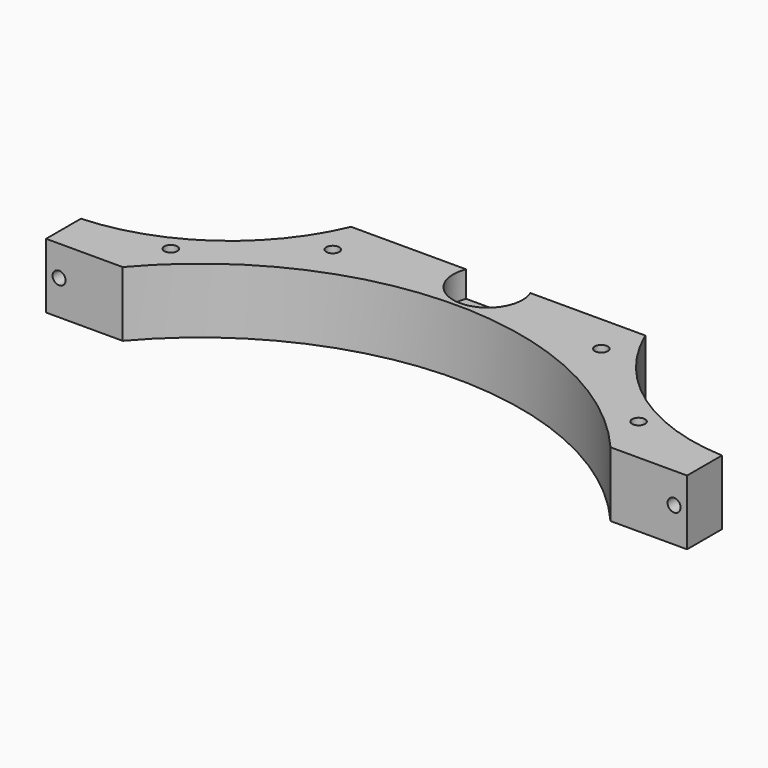
from build123d import *

# Parameters (mm, degrees)
CYLINDER1913_R               = 1.5
CYLINDER1913_DEPTH           = 50
CYLINDER1913_PLACEMENT_ANGLE = 45
CYLINDER1912_R               = 1.5
CYLINDER1912_DEPTH           = 50
CYLINDER1912_PLACEMENT_ANGLE = 45
CYLINDER1910_R               = 1.5
CYLINDER1910_DEPTH           = 50
CYLINDER1910_PLACEMENT_ANGLE = 45
CYLINDER1911_R               = 1.5
CYLINDER1911_DEPTH           = 50
CYLINDER1911_PLACEMENT_ANGLE = 45
CYLINDER1923_R               = 3
CYLINDER1923_DEPTH           = 3
CYLINDER1923_PLACEMENT_ANGLE = 45
CYLINDER1922_R               = 3
CYLINDER1922_DEPTH           = 3
CYLINDER1922_PLACEMENT_ANGLE = 45
CYLINDER1925_R               = 3
CYLINDER1925_DEPTH           = 3
CYLINDER1925_PLACEMENT_ANGLE = 45
CYLINDER1924_R               = 3
CYLINDER1924_DEPTH           = 3
CYLINDER1924_PLACEMENT_ANGLE = 45
CYLINDER1902_R               = 8
CYLINDER1902_DEPTH           = 6
CYLINDER1897_R               = 3
CYLINDER1897_DEPTH           = 50
CYLINDER1898_R               = 3
CYLINDER1898_DEPTH           = 50
CYLINDER1891_R               = 1.5
CYLINDER1891_DEPTH           = 50
CYLINDER1899_R               = 1.5
CYLINDER1899_DEPTH           = 50
CYLINDER1894_R               = 74
CYLINDER1894_DEPTH           = 15
CYLINDER1892_R               = 46
CYLINDER1892_DEPTH           = 36
CYLINDER1895_R               = 46
CYLINDER1895_DEPTH           = 36
BOX801_W                     = 148
BOX801_H                     = 38
BOX801_DEPTH                 = 15
CHAMFER064_SIZE              = 2


with BuildPart() as obj1:
    # Cylinder1913 → Cylinder1913 (new body)
    with BuildSketch(Plane.XY):
        Circle(CYLINDER1913_R)
    extrude(amount=CYLINDER1913_DEPTH)


with BuildPart() as obj1_1:
    # Cylinder1913 placement: moved
    add(obj1.part.moved(Location((-31, 77, 0))).rotate(Axis((-31, 77, 0), (0, 0, 1)), CYLINDER1913_PLACEMENT_ANGLE))


with BuildPart() as compound960:
    # Cylinder1912 → Cylinder1912 (new body)
    with BuildSketch(Plane.XY):
        Circle(CYLINDER1912_R)
    extrude(amount=CYLINDER1912_DEPTH)


with BuildPart() as compound960_1:
    # Cylinder1912 placement: moved
    add(compound960.part.moved(Location((31, 77, 0))).rotate(Axis((31, 77, 0), (0, 0, 1)), CYLINDER1912_PLACEMENT_ANGLE))

    # Compound960: union obj1
    add(obj1_1.part)


with BuildPart() as obj2:
    # Cylinder1910 → Cylinder1910 (new body)
    with BuildSketch(Plane.XY):
        Circle(CYLINDER1910_R)
    extrude(amount=CYLINDER1910_DEPTH)


with BuildPart() as obj2_1:
    # Cylinder1910 placement: moved
    add(obj2.part.moved(Location((-54, 59, 0))).rotate(Axis((-54, 59, 0), (0, 0, 1)), CYLINDER1910_PLACEMENT_ANGLE))


with BuildPart() as compound968:
    # Cylinder1911 → Cylinder1911 (new body)
    with BuildSketch(Plane.XY):
        Circle(CYLINDER1911_R)
    extrude(amount=CYLINDER1911_DEPTH)


with BuildPart() as compound968_1:
    # Cylinder1911 placement: moved
    add(compound968.part.moved(Location((54, 59, 0))).rotate(Axis((54, 59, 0), (0, 0, 1)), CYLINDER1911_PLACEMENT_ANGLE))

    # Compound959: union obj2
    add(obj2_1.part)

    # Compound968: union Compound960
    add(compound960_1.part)


with BuildPart() as obj3:
    # Cylinder1923 → Cylinder1923 (new body)
    with BuildSketch(Plane.XY):
        Circle(CYLINDER1923_R)
    extrude(amount=CYLINDER1923_DEPTH)


with BuildPart() as obj3_1:
    # Cylinder1923 placement: moved
    add(obj3.part.moved(Location((-31, 77, 0))).rotate(Axis((-31, 77, 0), (0, 0, 1)), CYLINDER1923_PLACEMENT_ANGLE))


with BuildPart() as compound966:
    # Cylinder1922 → Cylinder1922 (new body)
    with BuildSketch(Plane.XY):
        Circle(CYLINDER1922_R)
    extrude(amount=CYLINDER1922_DEPTH)


with BuildPart() as compound966_1:
    # Cylinder1922 placement: moved
    add(compound966.part.moved(Location((31, 77, 0))).rotate(Axis((31, 77, 0), (0, 0, 1)), CYLINDER1922_PLACEMENT_ANGLE))

    # Compound966: union obj3
    add(obj3_1.part)


with BuildPart() as obj4:
    # Cylinder1925 → Cylinder1925 (new body)
    with BuildSketch(Plane.XY):
        Circle(CYLINDER1925_R)
    extrude(amount=CYLINDER1925_DEPTH)


with BuildPart() as obj4_1:
    # Cylinder1925 placement: moved
    add(obj4.part.moved(Location((-54, 59, 0))).rotate(Axis((-54, 59, 0), (0, 0, 1)), CYLINDER1925_PLACEMENT_ANGLE))


with BuildPart() as compound967:
    # Cylinder1924 → Cylinder1924 (new body)
    with BuildSketch(Plane.XY):
        Circle(CYLINDER1924_R)
    extrude(amount=CYLINDER1924_DEPTH)


with BuildPart() as compound967_1:
    # Cylinder1924 placement: moved
    add(compound967.part.moved(Location((54, 59, 0))).rotate(Axis((54, 59, 0), (0, 0, 1)), CYLINDER1924_PLACEMENT_ANGLE))

    # Compound965: union obj4
    add(obj4_1.part)

    # Compound967: union Compound966
    add(compound966_1.part)


with BuildPart() as compound967_2:
    # Compound967 placement: moved
    add(compound967_1.part.moved(Location((0, 0, 16))))


with BuildPart() as obj5:
    # Cylinder1902 → Cylinder1902 (new body)
    with BuildSketch(Plane(origin=(0, 83, 25), x_dir=(1, 0, 0), z_dir=(0, 0, 1))):
        Circle(CYLINDER1902_R)
    extrude(amount=CYLINDER1902_DEPTH)


with BuildPart() as obj6:
    # Cylinder1897 → Cylinder1897 (new body)
    with BuildSketch(Plane(origin=(-71, 106, 24), x_dir=(1, 0, 0), z_dir=(0, -1, 0))):
        Circle(CYLINDER1897_R)
    extrude(amount=CYLINDER1897_DEPTH)


with BuildPart() as compound955:
    # Cylinder1898 → Cylinder1898 (new body)
    with BuildSketch(Plane(origin=(71, 106, 24), x_dir=(1, 0, 0), z_dir=(0, -1, 0))):
        Circle(CYLINDER1898_R)
    extrude(amount=CYLINDER1898_DEPTH)

    # Compound955: union obj6
    add(obj6.part)


with BuildPart() as obj7:
    # Cylinder1891 → Cylinder1891 (new body)
    with BuildSketch(Plane(origin=(-71, 80, 24), x_dir=(1, 0, 0), z_dir=(0, -1, 0))):
        Circle(CYLINDER1891_R)
    extrude(amount=CYLINDER1891_DEPTH)


with BuildPart() as compound953:
    # Cylinder1899 → Cylinder1899 (new body)
    with BuildSketch(Plane(origin=(71, 80, 24), x_dir=(1, 0, 0), z_dir=(0, -1, 0))):
        Circle(CYLINDER1899_R)
    extrude(amount=CYLINDER1899_DEPTH)

    # Compound953: union obj7
    add(obj7.part)


with BuildPart() as obj8:
    # Cylinder1894 → Cylinder1894 (new body)
    with BuildSketch(Plane.XY.offset(16)):
        Circle(CYLINDER1894_R)
    extrude(amount=CYLINDER1894_DEPTH)


with BuildPart() as obj9:
    # Cylinder1892 → Cylinder1892 (new body)
    with BuildSketch(Plane(origin=(76.3, 104, 16), x_dir=(1, 0, 0), z_dir=(0, 0, 1))):
        Circle(CYLINDER1892_R)
    extrude(amount=CYLINDER1892_DEPTH)


with BuildPart() as obj10:
    # Cylinder1895 → Cylinder1895 (new body)
    with BuildSketch(Plane(origin=(-76.3, 104, 16), x_dir=(1, 0, 0), z_dir=(0, 0, 1))):
        Circle(CYLINDER1895_R)
    extrude(amount=CYLINDER1895_DEPTH)


with BuildPart() as cut613:
    # Box801 → Box801 (new body)
    with BuildSketch(Plane(origin=(-74, 48, 16), x_dir=(1, 0, 0), z_dir=(0, 0, 1))):
        with Locations((74, 19)):
            Rectangle(BOX801_W, BOX801_H)
    extrude(amount=BOX801_DEPTH)

    # Cut601: cut obj10
    add(obj10.part, mode=Mode.SUBTRACT)

    # Cut602: cut obj9
    add(obj9.part, mode=Mode.SUBTRACT)

    # Cut608: cut obj8
    add(obj8.part, mode=Mode.SUBTRACT)

    # Cut607: cut Compound953
    add(compound953.part, mode=Mode.SUBTRACT)

    # Cut605: cut Compound955
    add(compound955.part, mode=Mode.SUBTRACT)

    # Cut604: cut obj5
    add(obj5.part, mode=Mode.SUBTRACT)

    # Chamfer064
    chamfer064_edges = [cut613.edges().sort_by_distance(p)[0] for p in [
        (0, 86, 16),
    ]]
    chamfer(chamfer064_edges, length=CHAMFER064_SIZE)

    # Cut612: cut Compound967
    add(compound967_2.part, mode=Mode.SUBTRACT)

    # Cut613: cut Compound968
    add(compound968_1.part, mode=Mode.SUBTRACT)


solid = cut613.part
